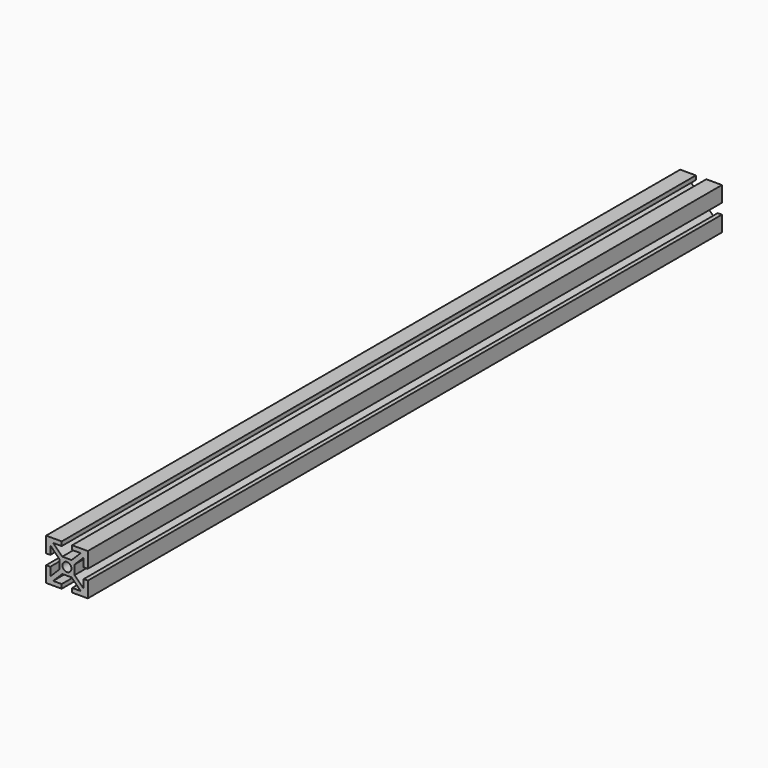
from build123d import *

# Parameters (mm, degrees)
F1_DEPTH      = 190
F1_DEPTH_BACK = 190


with BuildPart() as f1:
    # F0 (on Front) → F1 (new body, two sides)
    with BuildSketch(Plane.XZ) as f1_sk:
        Polygon((-2.238045, 9.768403), (-9.738045, 9.768403), (-9.738045, 2.268403), (-7.738045, 2.268403), (-7.738045, 6.35419), (-3.388045, 2.00419), (-3.388045, -0.231597), (-3.388045, -2.467383), (-7.738045, -6.817383), (-7.738045, -2.731597), (-9.738045, -2.731597), (-9.738045, -10.231597), (-2.238045, -10.231597), (-2.238045, -8.231597), (-6.323832, -8.231597), (-1.973832, -3.881597), (2.497741, -3.881597), (6.847741, -8.231597), (2.761955, -8.231597), (2.761955, -10.231597), (10.261955, -10.231597), (10.261955, -2.731597), (8.261955, -2.731597), (8.261955, -6.817383), (3.911955, -2.467383), (3.911955, -0.231597), (3.911955, 2.00419), (8.261955, 6.35419), (8.261955, 2.268403), (10.261955, 2.268403), (10.261955, 9.768403), (2.761955, 9.768403), (2.761955, 7.768403), (6.847741, 7.768403), (2.497741, 3.418403), (-1.973832, 3.418403), (-6.323832, 7.768403), (-2.238045, 7.768403), align=None)
        with BuildLine():
            ThreePointArc((-1.888045, -0.231597), (0.261955, 1.918403), (2.411955, -0.231597))
            ThreePointArc((2.411955, -0.231597), (0.261955, -2.381597), (-1.888045, -0.231597))
        make_face(mode=Mode.SUBTRACT)
    extrude(amount=F1_DEPTH)
    extrude(f1_sk.sketch, amount=-F1_DEPTH_BACK)


solid = f1.part
